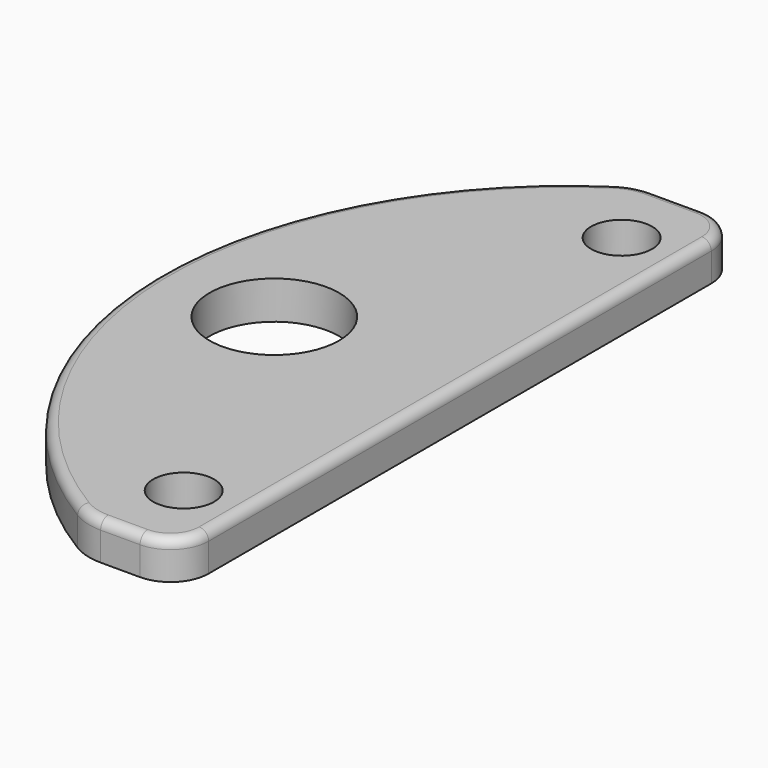
from build123d import *

# Parameters (mm, degrees)
F0_R     = 1.6
F0_R_2   = 3.4
F1_DEPTH = 2
F2_R     = 0.5


with BuildPart() as f1:
    # F0 (on Top) → F1 (new body)
    with BuildSketch(Plane.XY):
        with BuildLine():
            ThreePointArc((11.373171, -18.063961), (12.122028, -18.388934), (12.930766, -18.5))
            Line((12.930766, -18.5), (15, -18.5))
            ThreePointArc((15, -18.5), (16.414214, -17.914214), (17, -16.5))
            Line((17, -16.5), (17, 16.5))
            ThreePointArc((17, 16.5), (16.414214, 17.914214), (15, 18.5))
            Line((15, 18.5), (12.340035, 18.5))
            ThreePointArc((12.340035, 18.5), (11.476402, 18.373002), (10.68589, 18.002759))
            ThreePointArc((10.68589, 18.002759), (1.109494, -0.219636), (11.373171, -18.063961))
        make_face()
        with Locations((13.990683, -14.374997)):
            Circle(F0_R, mode=Mode.SUBTRACT)
        with Locations((7.25, 0)):
            Circle(F0_R_2, mode=Mode.SUBTRACT)
        with Locations((13.990683, 14.374997)):
            Circle(F0_R, mode=Mode.SUBTRACT)
    extrude(amount=F1_DEPTH)

    # F2
    f2_edges = [f1.edges().sort_by_distance(p)[0] for p in [
        (1.109494, -0.219636, 2),
    ]]
    fillet(f2_edges, radius=F2_R)


solid = f1.part
